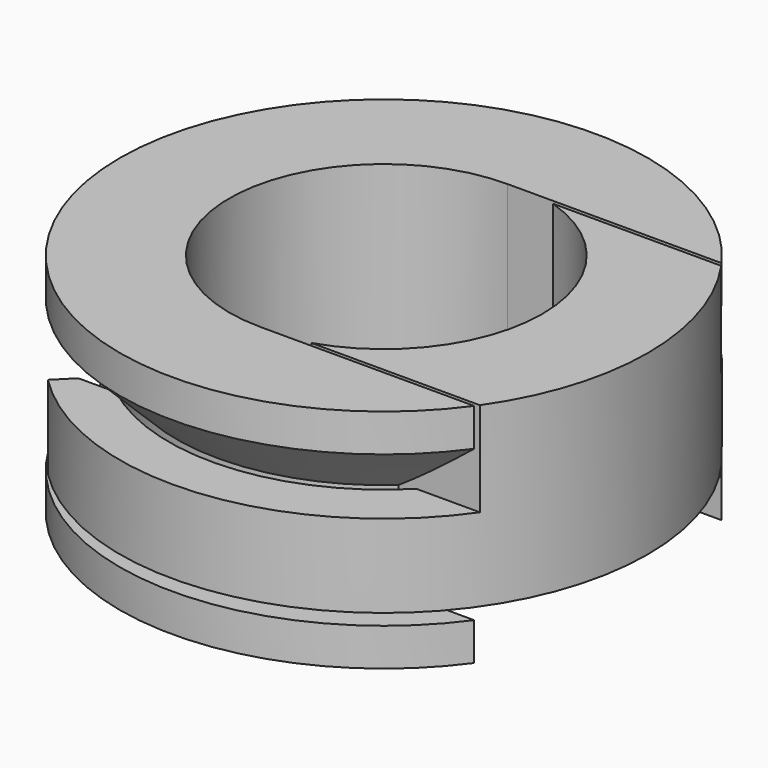
from build123d import *

# Parameters (mm, degrees)
BOX_W             = 12
BOX_H             = 8.2
BOX_DEPTH         = 10
CYLINDER003_R     = 5.5
CYLINDER003_DEPTH = 4
CYLINDER002_R     = 8
CYLINDER002_DEPTH = 4
CHAMFER_SIZE      = 1.5
CYLINDER001_R     = 4.1
CYLINDER001_DEPTH = 6
CYLINDER_R        = 7
CYLINDER_DEPTH    = 6
BOX004_W          = 10
BOX004_H          = 9
BOX004_DEPTH      = 10
BOX003_W          = 10
BOX003_H          = 14
BOX003_DEPTH      = 10
CHAMFER002_SIZE   = 3
BOX002_W          = 10
BOX002_H          = 8
BOX002_DEPTH      = 6
CYLINDER011_R     = 10
CYLINDER011_DEPTH = 1.3
CYLINDER014_R     = 5.7
CYLINDER014_DEPTH = 10
CYLINDER013_R     = 7
CYLINDER013_DEPTH = 2.3
CYLINDER010_R     = 4.2
CYLINDER010_DEPTH = 10
BOX001_W          = 8
BOX001_H          = 8
BOX001_DEPTH      = 6
CYLINDER009_R     = 7
CYLINDER009_DEPTH = 10


with BuildPart() as cube:
    # Box → Box (new body)
    with BuildSketch(Plane(origin=(0, -4.1, 0), x_dir=(1, 0, 0), z_dir=(0, 0, 1))):
        with Locations((6, 4.1)):
            Rectangle(BOX_W, BOX_H)
    extrude(amount=BOX_DEPTH)


with BuildPart() as cylinder003:
    # Cylinder003 → Cylinder003 (new body)
    with BuildSketch(Plane.XY.offset(1)):
        Circle(CYLINDER003_R)
    extrude(amount=CYLINDER003_DEPTH)


with BuildPart() as chamfer_body:
    # Cylinder002 → Cylinder002 (new body)
    with BuildSketch(Plane.XY.offset(1)):
        Circle(CYLINDER002_R)
    extrude(amount=CYLINDER002_DEPTH)

    # Cut010: cut Cylinder003
    add(cylinder003.part, mode=Mode.SUBTRACT)

    # Chamfer
    chamfer_edges = [chamfer_body.edges().sort_by_distance(p)[0] for p in [
        (-5.5, 0, 5),
    ]]
    chamfer(chamfer_edges, length=CHAMFER_SIZE)


with BuildPart() as cylinder001:
    # Cylinder001 → Cylinder001 (new body)
    with BuildSketch(Plane.XY):
        Circle(CYLINDER001_R)
    extrude(amount=CYLINDER001_DEPTH)


with BuildPart() as cut012:
    # Cylinder → Cylinder (new body)
    with BuildSketch(Plane.XY):
        Circle(CYLINDER_R)
    extrude(amount=CYLINDER_DEPTH)

    # Cut: cut Cylinder001
    add(cylinder001.part, mode=Mode.SUBTRACT)

    # Cut011: cut Chamfer body
    add(chamfer_body.part, mode=Mode.SUBTRACT)

    # Cut012: cut Cube
    add(cube.part, mode=Mode.SUBTRACT)


with BuildPart() as cube004:
    # Box004 → Box004 (new body)
    with BuildSketch(Plane(origin=(-10, -4.5, 1), x_dir=(1, 0, 0), z_dir=(0, 0, 1))):
        with Locations((5, 4.5)):
            Rectangle(BOX004_W, BOX004_H)
    extrude(amount=BOX004_DEPTH)


with BuildPart() as chamfer002:
    # Box003 → Box003 (new body)
    with BuildSketch(Plane(origin=(-13.5, -7, 0), x_dir=(1, 0, 0), z_dir=(0, 0, 1))):
        with Locations((5, 7)):
            Rectangle(BOX003_W, BOX003_H)
    extrude(amount=BOX003_DEPTH)

    # Chamfer002
    chamfer002_edges = [chamfer002.edges().sort_by_distance(p)[0] for p in [
        (-3.5, -7, 5),
        (-3.5, 7, 5),
    ]]
    chamfer(chamfer002_edges, length=CHAMFER002_SIZE)


with BuildPart() as chamfer002_1:
    # Chamfer002 placement: moved
    add(chamfer002.part.moved(Location((-0.5, 0, 0))))


with BuildPart() as cube002:
    # Box002 → Box002 (new body)
    with BuildSketch(Plane(origin=(-10, -4, 0), x_dir=(1, 0, 0), z_dir=(0, 0, 1))):
        with Locations((5, 4)):
            Rectangle(BOX002_W, BOX002_H)
    extrude(amount=BOX002_DEPTH)


with BuildPart() as cylinder011:
    # Cylinder011 → Cylinder011 (new body)
    with BuildSketch(Plane.XY):
        Circle(CYLINDER011_R)
    extrude(amount=CYLINDER011_DEPTH)


with BuildPart() as cylinder014:
    # Cylinder014 → Cylinder014 (new body)
    with BuildSketch(Plane.XY.offset(1.2)):
        Circle(CYLINDER014_R)
    extrude(amount=CYLINDER014_DEPTH)


with BuildPart() as cut015:
    # Cylinder013 → Cylinder013 (new body)
    with BuildSketch(Plane.XY.offset(1.2)):
        Circle(CYLINDER013_R)
    extrude(amount=CYLINDER013_DEPTH)

    # Cut015: cut Cylinder014
    add(cylinder014.part, mode=Mode.SUBTRACT)


with BuildPart() as cylinder010:
    # Cylinder010 → Cylinder010 (new body)
    with BuildSketch(Plane.XY):
        Circle(CYLINDER010_R)
    extrude(amount=CYLINDER010_DEPTH)


with BuildPart() as cube001:
    # Box001 → Box001 (new body)
    with BuildSketch(Plane(origin=(0, -4, 0), x_dir=(1, 0, 0), z_dir=(0, 0, 1))):
        with Locations((4, 4)):
            Rectangle(BOX001_W, BOX001_H)
    extrude(amount=BOX001_DEPTH)


with BuildPart() as cut019:
    # Cylinder009 → Cylinder009 (new body)
    with BuildSketch(Plane.XY):
        Circle(CYLINDER009_R)
    extrude(amount=CYLINDER009_DEPTH)

    # Common001: intersect Cube001
    add(cube001.part, mode=Mode.INTERSECT)

    # Cut014: cut Cylinder010
    add(cylinder010.part, mode=Mode.SUBTRACT)

    # Fusion: union Cut015
    add(cut015.part)

    # Cut016: cut Cylinder011
    add(cylinder011.part, mode=Mode.SUBTRACT)

    # Cut017: cut Cube002
    add(cube002.part, mode=Mode.SUBTRACT)

    # Cut018: cut Chamfer002
    add(chamfer002_1.part, mode=Mode.SUBTRACT)

    # Cut019: cut Cube004
    add(cube004.part, mode=Mode.SUBTRACT)


solid = Compound([cut012.part, cut019.part])
